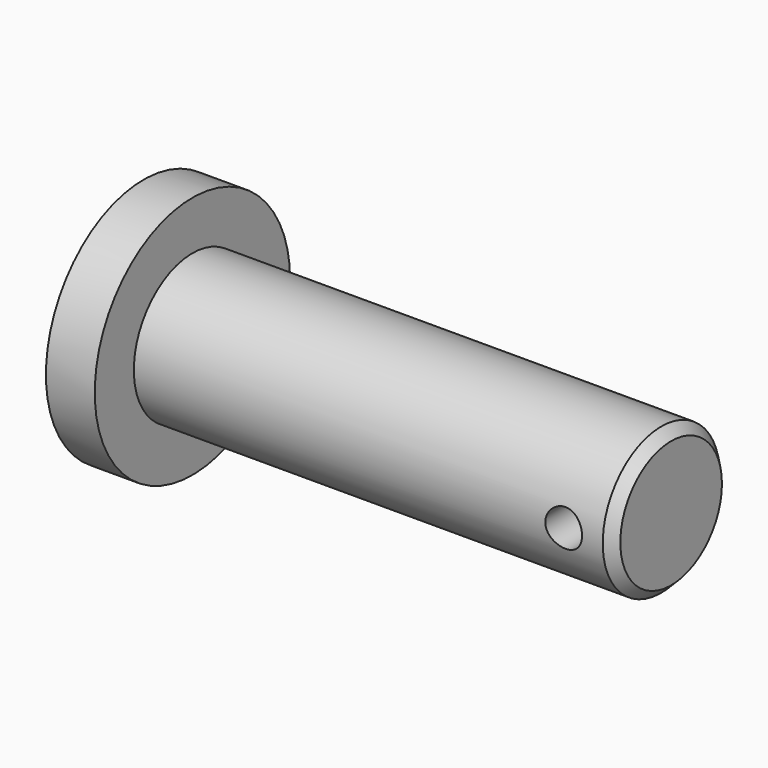
from build123d import *

# Parameters (mm, degrees)
F0_R          = 15.875
F1_DEPTH      = 6.35
F2_R          = 9.525
F3_DEPTH      = 62.23
F4_SIZE2      = 1.27
F4_SIZE       = 1.27
F5_R          = 2.3876
F6_DEPTH      = 25.4
F6_DEPTH_BACK = 25.4


with BuildPart() as f1:
    # F0 (on Right) → F1 (new body)
    with BuildSketch(Plane.YZ):
        Circle(F0_R)
    extrude(amount=F1_DEPTH)

    # F2 (on face) → F3 (join)
    with BuildSketch(Plane.YZ.offset(6.35)):
        Circle(F2_R)
    extrude(amount=F3_DEPTH)

    # F4
    f4_edges = [f1.edges().sort_by_distance(p)[0] for p in [
        (68.58, -9.525, 0),
    ]]
    chamfer(f4_edges, length=F4_SIZE, length2=F4_SIZE2)

    # F5 (on Front) → F6 (cut, two sides)
    with BuildSketch(Plane.XZ) as f6_sk:
        with Locations((62.23, 0)):
            Circle(F5_R)
    extrude(amount=-F6_DEPTH, mode=Mode.SUBTRACT)
    extrude(f6_sk.sketch, amount=F6_DEPTH_BACK, mode=Mode.SUBTRACT)


solid = f1.part
